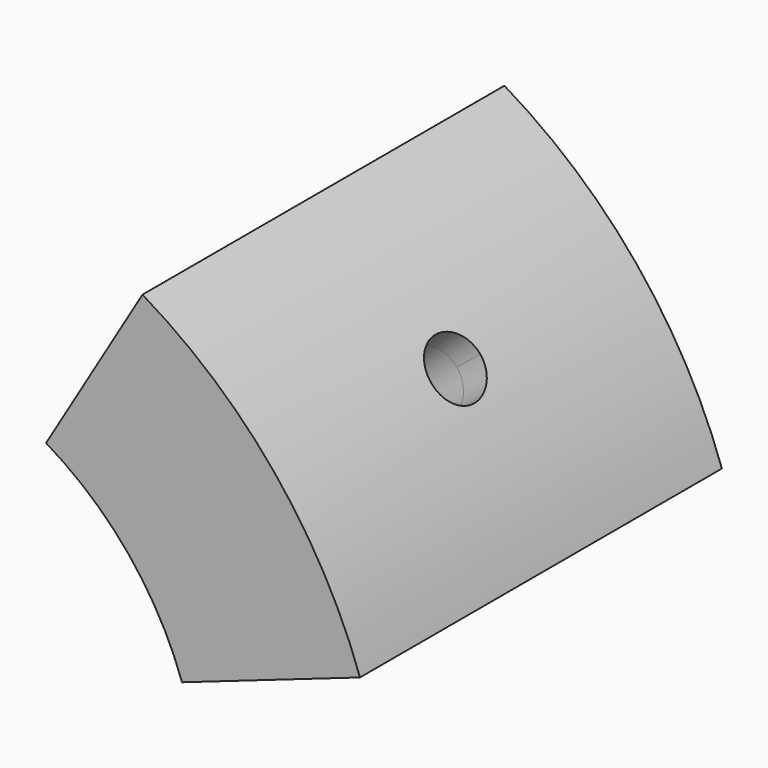
from build123d import *

# Parameters (mm, degrees)
F2_DEPTH = 32
F3_DEPTH = 4
F6_D     = 4.9
F6_DEPTH = 10
F6_TIP   = 1.4721085166
F7_D     = 4.9
F7_DEPTH = 10
F7_TIP   = 1.4721085166


with BuildPart() as f2:
    # F0 (on Front) → F2 (new body)
    with BuildSketch(Plane.XZ):
        with BuildLine():
            Line((23.6029717884, 8.2401288069), (37.7647548615, 13.1842060911))
            ThreePointArc((37.7647548615, 13.1842060911), (30.9779974122, 25.3054080451), (20.4548362885, 34.3744043208))
            Line((20.4548362885, 34.3744043208), (12.7842726803, 21.4840027005))
            ThreePointArc((12.7842726803, 21.4840027005), (19.3612483826, 15.8158800282), (23.6029717884, 8.2401288069))
        make_face()
    extrude(amount=F2_DEPTH)

    # F1 (on Front) + F0 (on Front) → F3 (join)
    with BuildSketch(Plane.XZ):
        with BuildLine():
            ThreePointArc((11.7615308659, 19.7652824845), (17.812348512, 14.5506096259), (21.7147340454, 7.5809185024))
            Line((21.7147340454, 7.5809185024), (37.7647548615, 13.1842060911))
            ThreePointArc((37.7647548615, 13.1842060911), (30.9779974122, 25.3054080451), (20.4548362885, 34.3744043208))
            Line((20.4548362885, 34.3744043208), (11.7615308659, 19.7652824845))
        make_face()
    with BuildSketch(Plane.XZ):
        with BuildLine():
            Line((23.6029717884, 8.2401288069), (37.7647548615, 13.1842060911))
            ThreePointArc((37.7647548615, 13.1842060911), (30.9779974122, 25.3054080451), (20.4548362885, 34.3744043208))
            Line((20.4548362885, 34.3744043208), (12.7842726803, 21.4840027005))
            ThreePointArc((12.7842726803, 21.4840027005), (19.3612483826, 15.8158800282), (23.6029717884, 8.2401288069))
        make_face()
    extrude(amount=-F3_DEPTH)

    # F6 (one way)
    with BuildSketch(Plane(origin=(29.109795575, 0, 23.7793052059), x_dir=(0, 1, 0), z_dir=(-0.7744499353, 0, -0.6326352011))):
        with Locations((-14, 0)):
            Circle(F6_D / 2)
    extrude(amount=-F6_DEPTH, mode=Mode.SUBTRACT)
    with Locations(Plane(origin=(29.109795575, 0, 23.7793052059), x_dir=(0, 1, 0), z_dir=(-0.7744499353, 0, -0.6326352011))):
        with Locations((-14, 0)):
            with Locations((0, 0, -(F6_DEPTH + F6_TIP / 2))):  # 118° drill point
                Cone(0, F6_D / 2, F6_TIP, mode=Mode.SUBTRACT)

    # F7
    with Locations(Plane(origin=(29.109795575, 0, 23.7793052059), x_dir=(0, 1, 0), z_dir=(0.7744499353, 0, 0.6326352011))):
        with Locations((-14, 0)):
            Hole(F7_D / 2, depth=F7_DEPTH)
            with Locations((0, 0, -(F7_DEPTH + F7_TIP / 2))):  # 118° drill point
                Cone(0, F7_D / 2, F7_TIP, mode=Mode.SUBTRACT)


solid = f2.part
